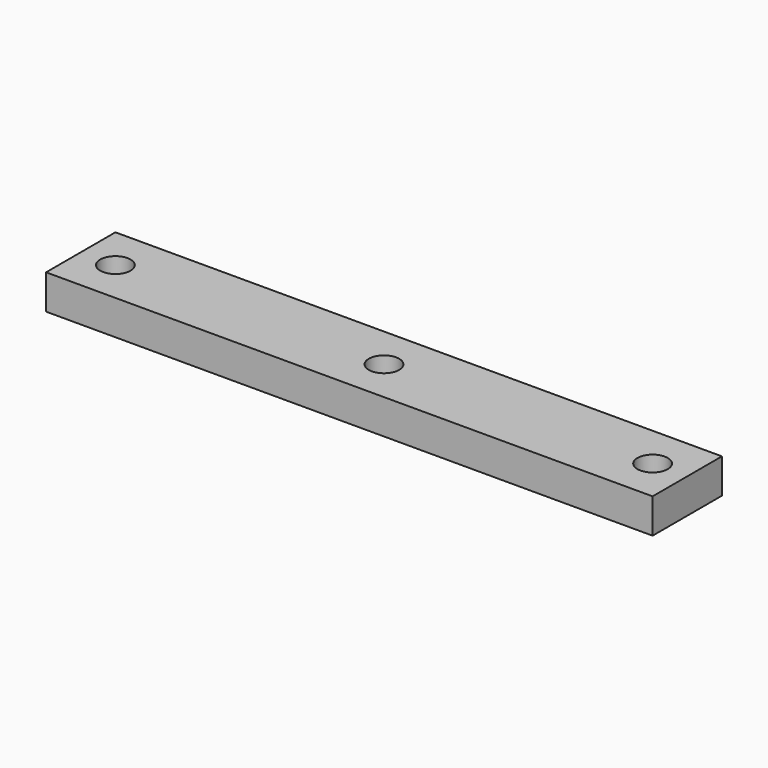
from build123d import *

# Parameters (mm, degrees)
F0_W     = 70
F0_H     = 10
F0_R     = 1.75
F1_DEPTH = 4


with BuildPart() as f1:
    # F0 (on Top) → F1 (new body)
    with BuildSketch(Plane.XY):
        with Locations((31, 0)):
            Rectangle(F0_W, F0_H)
        Circle(F0_R, mode=Mode.SUBTRACT)
        with Locations((31, 0)):
            Circle(F0_R, mode=Mode.SUBTRACT)
        with Locations((62, 0)):
            Circle(F0_R, mode=Mode.SUBTRACT)
    extrude(amount=F1_DEPTH)


solid = f1.part
